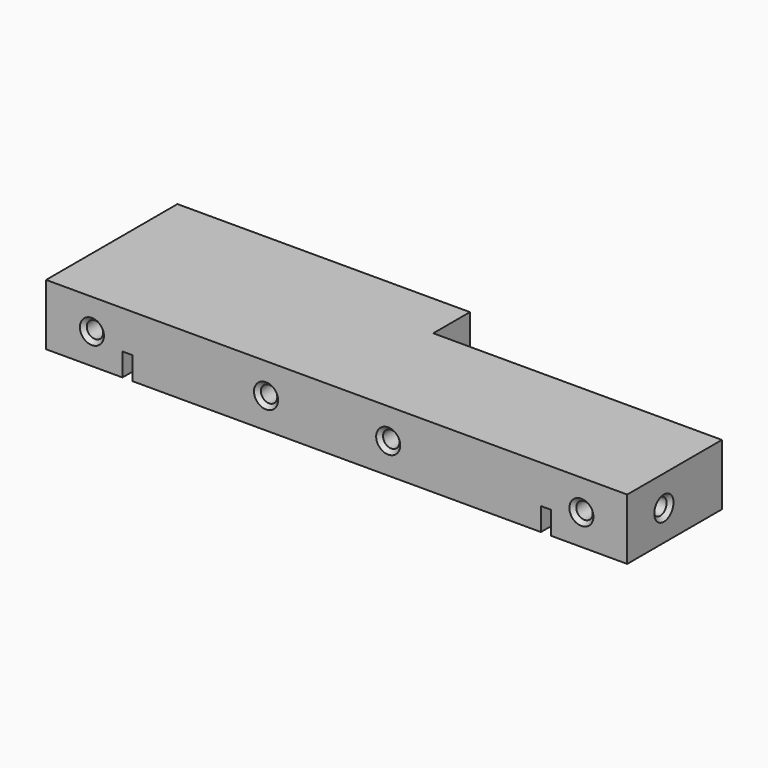
from build123d import *

# Parameters (mm, degrees)
PAD_DEPTH       = 16
SKETCH001_R     = 2.15
SKETCH001_W     = 2.6
SKETCH001_H     = 6
POCKET_DEPTH    = 43.001
SKETCH002_R     = 2.15
POCKET001_DEPTH = 8
SKETCH003_R     = 2.15
POCKET002_DEPTH = 8
CHAMFER_SIZE    = 1


with BuildPart() as part:
    # Sketch → Pad (new body)
    with BuildSketch(Plane.XY):
        Polygon((0, 0), (0, 43), (76.6, 43), (76.6, 31), (152.2, 31), (152.2, 0), align=None)
    extrude(amount=PAD_DEPTH)

    # Sketch001 → Pocket (cut, through all)
    with BuildSketch(Plane.XZ):
        with Locations((12, 8)):
            Circle(SKETCH001_R)
        with Locations((89.6, 8)):
            Circle(SKETCH001_R)
        with Locations((140.2, 8)):
            Circle(SKETCH001_R)
        with Locations((57.6, 8)):
            Circle(SKETCH001_R)
        with Locations((21.3, 3)):
            Rectangle(SKETCH001_W, SKETCH001_H)
        with Locations((130.9, 3)):
            Rectangle(SKETCH001_W, SKETCH001_H)
    extrude(amount=-POCKET_DEPTH, mode=Mode.SUBTRACT)

    # Sketch002 → Pocket001 (cut)
    with BuildSketch(Plane.YZ):
        with Locations((12, 8)):
            Circle(SKETCH002_R)
    extrude(amount=POCKET001_DEPTH, mode=Mode.SUBTRACT)

    # Sketch003 (on DatumPlane) → Pocket002 (cut)
    with BuildSketch(Plane.YZ.offset(152.2)):
        with Locations((12, 8)):
            Circle(SKETCH003_R)
    extrude(amount=-POCKET002_DEPTH, mode=Mode.SUBTRACT)

    # Chamfer
    chamfer_edges = [part.edges().sort_by_distance(p)[0] for p in [
        (0, 9.85, 8),
        (9.85, 0, 8),
        (55.45, 0, 8),
        (87.45, 0, 8),
        (138.05, 0, 8),
        (152.2, 9.85, 8),
        (138.05, 31, 8),
        (87.45, 31, 8),
        (55.45, 43, 8),
        (9.85, 43, 8),
    ]]
    chamfer(chamfer_edges, length=CHAMFER_SIZE)


solid = part.part
